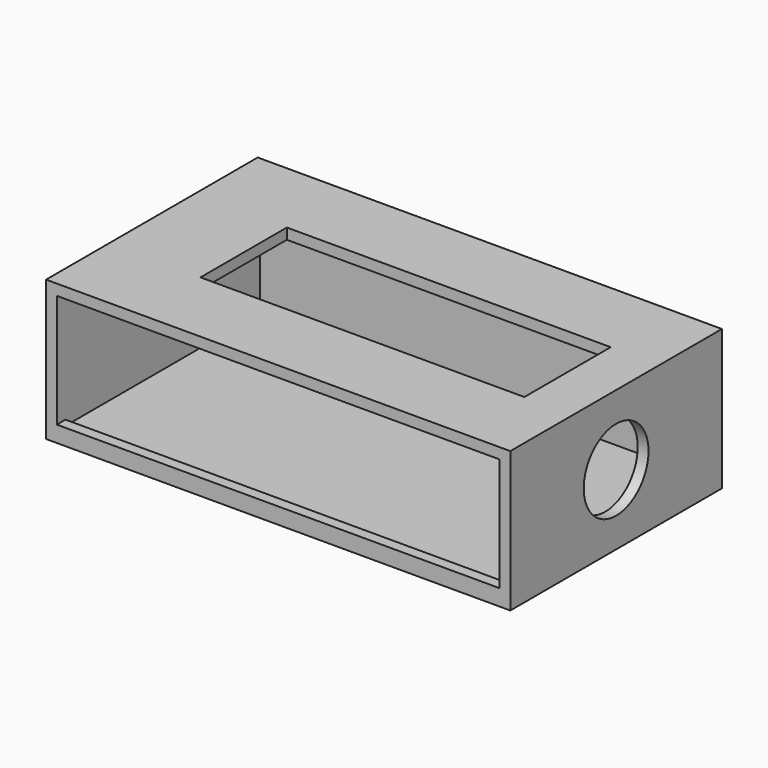
from build123d import *

# Parameters (mm, degrees)
F0_W      = 82
F0_H      = 45
F1_DEPTH  = 2
F0_W_2    = 86
F0_H_2    = 49
F2_DEPTH  = 26
F3_W      = 82
F3_H      = 2
F4_DEPTH  = 45
F5_W      = 82
F5_H      = 21
F6_DEPTH  = 2
F7_W      = 60
F7_H      = 20
F8_DEPTH  = 2
F9_R      = 7.5
F10_DEPTH = 2
F11_W     = 24.9
F11_H     = 27.5
F12_DEPTH = 5
F14_D     = 2.4
F16_D     = 2.4
F18_D     = 2.4


with BuildPart() as f1:
    # F0 (on Top) → F1 (new body)
    with BuildSketch(Plane.XY):
        with Locations((13.0754061341, -4.1655291622)):
            Rectangle(F0_W, F0_H)
    extrude(amount=F1_DEPTH)

    # F0 (on Top) → F2 (join)
    with BuildSketch(Plane.XY):
        with Locations((13.0754061341, -4.1655291622)):
            Rectangle(F0_W_2, F0_H_2)
        with Locations((13.0754061341, -4.1655291622)):
            Rectangle(F0_W, F0_H, mode=Mode.SUBTRACT)
    extrude(amount=F2_DEPTH)

    # F3 (on face) → F4 (join, through all)
    with BuildSketch(Plane.XZ.offset(-18.3344708378)):
        with Locations((13.0754061341, 25)):
            Rectangle(F3_W, F3_H)
    extrude(amount=F4_DEPTH)

    # F5 (on face) → F6 (cut)
    with BuildSketch(Plane.XZ.offset(28.6655291622)):
        with Locations((13.0754061341, 13.5)):
            Rectangle(F5_W, F5_H)
    extrude(amount=-F6_DEPTH, mode=Mode.SUBTRACT)

    # F7 (on face) → F8 (cut, through all)
    with BuildSketch(Plane.XY.offset(26)):
        with Locations((17.0754061341, -4.1655291622)):
            Rectangle(F7_W, F7_H)
    extrude(amount=-F8_DEPTH, mode=Mode.SUBTRACT)

    # F9 (on face) → F10 (cut, through all)
    with BuildSketch(Plane.YZ.offset(56.0754061341)):
        with Locations((-4.1655291622, 13)):
            Circle(F9_R)
    extrude(amount=-F10_DEPTH, mode=Mode.SUBTRACT)

    # F11 (on face) → F12 (join)
    with BuildSketch(Plane(origin=(0, 0, 0), x_dir=(1, 0, 0), z_dir=(0, 0, -1))):
        with Locations((36.5254061341, 5.1655291622)):
            Rectangle(F11_W, F11_H)
        with BuildLine():
            ThreePointArc((35.5254061341, 15.9155291622), (36.5254061341, 16.9155291622), (37.5254061341, 15.9155291622))
            Line((37.5254061341, 15.9155291622), (45.9754061341, 15.9155291622))
            Line((45.9754061341, 15.9155291622), (45.9754061341, 6.1655291622))
            ThreePointArc((45.9754061341, 6.1655291622), (46.6825129153, 5.8726359434), (46.9754061341, 5.1655291622))
            ThreePointArc((46.9754061341, 5.1655291622), (46.6825129153, 4.458422381), (45.9754061341, 4.1655291622))
            Line((45.9754061341, 4.1655291622), (45.9754061341, -5.5844708378))
            Line((45.9754061341, -5.5844708378), (37.5254061341, -5.5844708378))
            ThreePointArc((37.5254061341, -5.5844708378), (36.5254061341, -6.5844708378), (35.5254061341, -5.5844708378))
            Line((35.5254061341, -5.5844708378), (27.0754061341, -5.5844708378))
            Line((27.0754061341, -5.5844708378), (27.0754061341, 4.1655291622))
            ThreePointArc((27.0754061341, 4.1655291622), (26.0754061341, 5.1655291622), (27.0754061341, 6.1655291622))
            Line((27.0754061341, 6.1655291622), (27.0754061341, 15.9155291622))
            Line((27.0754061341, 15.9155291622), (35.5254061341, 15.9155291622))
        make_face(mode=Mode.SUBTRACT)
        with BuildLine():
            Line((27.0754061341, 4.1655291622), (27.0754061341, 6.1655291622))
            ThreePointArc((27.0754061341, 6.1655291622), (26.0754061341, 5.1655291622), (27.0754061341, 4.1655291622))
        make_face()
        with BuildLine():
            ThreePointArc((28.0754061341, 5.1655291622), (27.7825129153, 5.8726359434), (27.0754061341, 6.1655291622))
            Line((27.0754061341, 6.1655291622), (27.0754061341, 4.1655291622))
            ThreePointArc((27.0754061341, 4.1655291622), (27.7825129153, 4.458422381), (28.0754061341, 5.1655291622))
        make_face()
        with BuildLine():
            ThreePointArc((35.5254061341, 15.9155291622), (36.5254061341, 14.9155291622), (37.5254061341, 15.9155291622))
            Line((37.5254061341, 15.9155291622), (35.5254061341, 15.9155291622))
        make_face()
        with BuildLine():
            Line((35.5254061341, 15.9155291622), (37.5254061341, 15.9155291622))
            ThreePointArc((37.5254061341, 15.9155291622), (36.5254061341, 16.9155291622), (35.5254061341, 15.9155291622))
        make_face()
        with BuildLine():
            Line((45.9754061341, 4.1655291622), (45.9754061341, 6.1655291622))
            ThreePointArc((45.9754061341, 6.1655291622), (44.9754061341, 5.1655291622), (45.9754061341, 4.1655291622))
        make_face()
        with BuildLine():
            ThreePointArc((46.9754061341, 5.1655291622), (46.6825129153, 5.8726359434), (45.9754061341, 6.1655291622))
            Line((45.9754061341, 6.1655291622), (45.9754061341, 4.1655291622))
            ThreePointArc((45.9754061341, 4.1655291622), (46.6825129153, 4.458422381), (46.9754061341, 5.1655291622))
        make_face()
        with BuildLine():
            ThreePointArc((35.5254061341, -5.5844708378), (36.5254061341, -6.5844708378), (37.5254061341, -5.5844708378))
            Line((37.5254061341, -5.5844708378), (35.5254061341, -5.5844708378))
        make_face()
        with Locations((-8.3745938659, 5.1655291622)):
            Rectangle(F11_W, F11_H)
        with BuildLine():
            ThreePointArc((-9.3745938659, 15.9155291622), (-8.3745938659, 16.9155291622), (-7.3745938659, 15.9155291622))
            Line((-7.3745938659, 15.9155291622), (1.0754061341, 15.9155291622))
            Line((1.0754061341, 15.9155291622), (1.0754061341, 6.1655291622))
            ThreePointArc((1.0754061341, 6.1655291622), (1.7825129153, 5.8726359434), (2.0754061341, 5.1655291622))
            ThreePointArc((2.0754061341, 5.1655291622), (1.7825129153, 4.458422381), (1.0754061341, 4.1655291622))
            Line((1.0754061341, 4.1655291622), (1.0754061341, -5.5844708378))
            Line((1.0754061341, -5.5844708378), (-7.3745938659, -5.5844708378))
            ThreePointArc((-7.3745938659, -5.5844708378), (-8.3745938659, -6.5844708378), (-9.3745938659, -5.5844708378))
            Line((-9.3745938659, -5.5844708378), (-17.8245938659, -5.5844708378))
            Line((-17.8245938659, -5.5844708378), (-17.8245938659, 4.1655291622))
            ThreePointArc((-17.8245938659, 4.1655291622), (-18.8245938659, 5.1655291622), (-17.8245938659, 6.1655291622))
            Line((-17.8245938659, 6.1655291622), (-17.8245938659, 15.9155291622))
            Line((-17.8245938659, 15.9155291622), (-9.3745938659, 15.9155291622))
        make_face(mode=Mode.SUBTRACT)
        with BuildLine():
            ThreePointArc((-9.3745938659, -5.5844708378), (-8.3745938659, -6.5844708378), (-7.3745938659, -5.5844708378))
            Line((-7.3745938659, -5.5844708378), (-9.3745938659, -5.5844708378))
        make_face()
        with BuildLine():
            Line((-9.3745938659, -5.5844708378), (-7.3745938659, -5.5844708378))
            ThreePointArc((-7.3745938659, -5.5844708378), (-8.3745938659, -4.5844708378), (-9.3745938659, -5.5844708378))
        make_face()
        with BuildLine():
            Line((1.0754061341, 4.1655291622), (1.0754061341, 6.1655291622))
            ThreePointArc((1.0754061341, 6.1655291622), (0.0754061341, 5.1655291622), (1.0754061341, 4.1655291622))
        make_face()
        with BuildLine():
            ThreePointArc((2.0754061341, 5.1655291622), (1.7825129153, 5.8726359434), (1.0754061341, 6.1655291622))
            Line((1.0754061341, 6.1655291622), (1.0754061341, 4.1655291622))
            ThreePointArc((1.0754061341, 4.1655291622), (1.7825129153, 4.458422381), (2.0754061341, 5.1655291622))
        make_face()
        with BuildLine():
            Line((-9.3745938659, 15.9155291622), (-7.3745938659, 15.9155291622))
            ThreePointArc((-7.3745938659, 15.9155291622), (-8.3745938659, 16.9155291622), (-9.3745938659, 15.9155291622))
        make_face()
        with BuildLine():
            ThreePointArc((-9.3745938659, 15.9155291622), (-8.3745938659, 14.9155291622), (-7.3745938659, 15.9155291622))
            Line((-7.3745938659, 15.9155291622), (-9.3745938659, 15.9155291622))
        make_face()
        with BuildLine():
            ThreePointArc((-16.8245938659, 5.1655291622), (-17.1174870847, 5.8726359434), (-17.8245938659, 6.1655291622))
            Line((-17.8245938659, 6.1655291622), (-17.8245938659, 4.1655291622))
            ThreePointArc((-17.8245938659, 4.1655291622), (-17.1174870847, 4.458422381), (-16.8245938659, 5.1655291622))
        make_face()
        with BuildLine():
            Line((-17.8245938659, 4.1655291622), (-17.8245938659, 6.1655291622))
            ThreePointArc((-17.8245938659, 6.1655291622), (-18.8245938659, 5.1655291622), (-17.8245938659, 4.1655291622))
        make_face()
        with BuildLine():
            Line((35.5254061341, -5.5844708378), (37.5254061341, -5.5844708378))
            ThreePointArc((37.5254061341, -5.5844708378), (36.5254061341, -4.5844708378), (35.5254061341, -5.5844708378))
        make_face()
    extrude(amount=F12_DEPTH)

    # F14 (through all)
    with Locations(Plane.YZ.offset(48.9754061341)):
        with Locations((-5.1655291622, -2.5)):
            Hole(F14_D / 2)

    # F16 (through all)
    with Locations(Plane(origin=(0, 8.5844708378, 0), x_dir=(-1, 0, 0), z_dir=(0, 1, 0))):
        with Locations((-36.5254061341, -2.5)):
            Hole(F16_D / 2)

    # F18 (through all)
    with Locations(Plane(origin=(0, 8.5844708378, 0), x_dir=(-1, 0, 0), z_dir=(0, 1, 0))):
        with Locations((8.3745938659, -2.5)):
            Hole(F18_D / 2)


solid = f1.part
